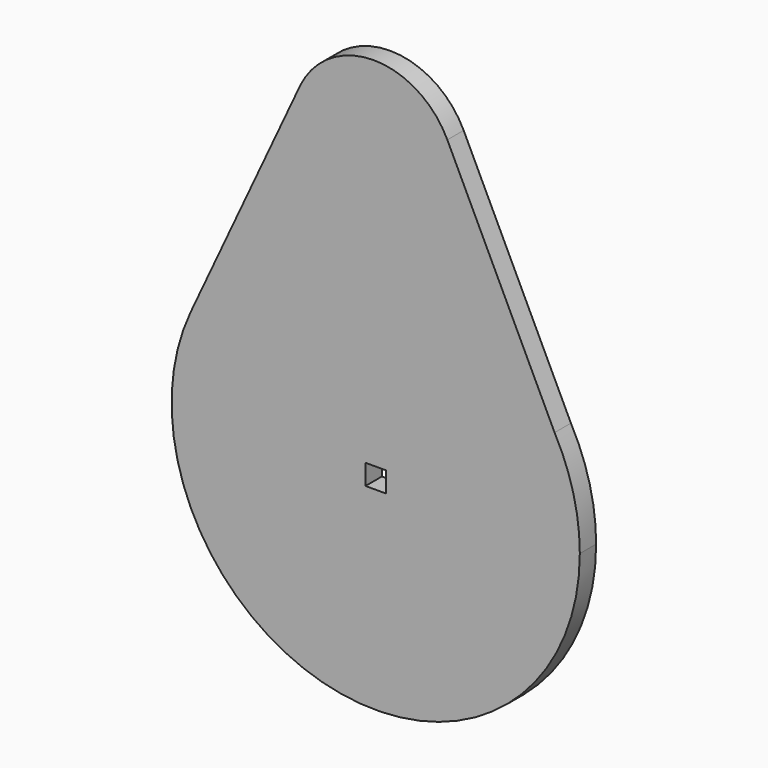
from build123d import *

# Parameters (mm, degrees)
F0_W     = 3.175
F0_H     = 3.175
F1_DEPTH = 3.175


with BuildPart() as f1:
    # F0 (on Front) → F1 (new body)
    with BuildSketch(Plane.XZ):
        with BuildLine():
            ThreePointArc((-73.961423, 42.131236), (-52.05154, -2.278535), (-13.433104, 28.719644))
            ThreePointArc((-13.433104, 28.719644), (-14.429342, 36.610694), (-17.35554, 44.00654))
            ThreePointArc((-17.35554, 44.00654), (-46.234377, 60.452235), (-73.961423, 42.131236))
        make_face()
        with Locations((-45.183104, 28.719644)):
            Rectangle(F0_W, F0_H, mode=Mode.SUBTRACT)
        with BuildLine():
            ThreePointArc((-73.961423, 42.131236), (-46.234377, 60.452235), (-17.35554, 44.00654))
            Line((-17.35554, 44.00654), (-34.04271, 78.677435))
            ThreePointArc((-34.04271, 78.677435), (-33.104337, 75.99429), (-32.786234, 73.169644))
            ThreePointArc((-32.786234, 73.169644), (-48.156231, 60.753481), (-57.063575, 78.390292))
            Line((-57.063575, 78.390292), (-73.961423, 42.131236))
        make_face()
        with BuildLine():
            ThreePointArc((-32.786234, 73.169644), (-33.104337, 75.99429), (-34.04271, 78.677435))
            Line((-34.04271, 78.677435), (-56.929758, 78.677435))
            Line((-56.929758, 78.677435), (-57.063575, 78.390292))
            ThreePointArc((-57.063575, 78.390292), (-48.156231, 60.753481), (-32.786234, 73.169644))
        make_face()
        with BuildLine():
            Line((-56.929758, 78.677435), (-34.04271, 78.677435))
            ThreePointArc((-34.04271, 78.677435), (-45.486234, 85.869644), (-56.929758, 78.677435))
        make_face()
    extrude(amount=F1_DEPTH)


solid = f1.part
